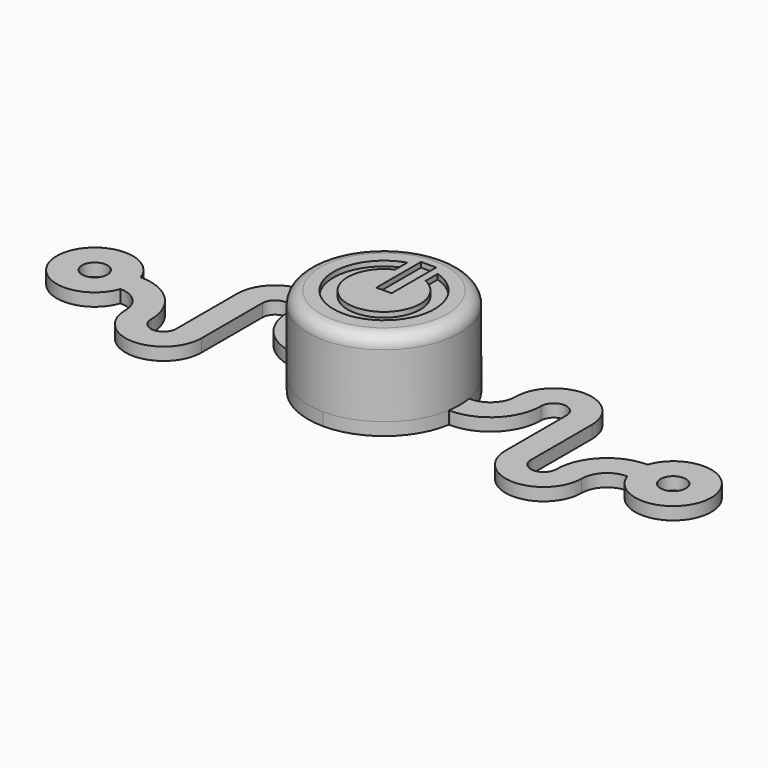
from build123d import *

# Parameters (mm, degrees)
MIRROREDSKETCH_R = 0.5
PAD_DEPTH        = 0.5
SKETCH_R         = 0.5
PAD001_DEPTH     = 0.5
SKETCH001_R      = 3
PAD002_DEPTH     = 3
FILLET_R         = 0.5
SKETCH002_W      = 0.6
SKETCH002_H      = 2.2
POCKET_DEPTH     = 0.2


with BuildPart() as part:
    # MirroredSketch → Pad (new body)
    with BuildSketch(Plane.XY):
        with BuildLine():
            Line((-2.95804, 0.5), (-3, 0.5))
            ThreePointArc((-4, 1.5), (-3.707107, 0.792893), (-3, 0.5))
            ThreePointArc((-4, 1.5), (-5.5, 3), (-7, 1.5))
            Line((-7, 1.5), (-7, -1.5))
            ThreePointArc((-8, -1.5), (-7.5, -2), (-7, -1.5))
            ThreePointArc((-8, -1.5), (-8.585787, -0.085786), (-10, 0.5))
            ThreePointArc((-10, 0.5), (-12.914214, 0), (-10, -0.5))
            ThreePointArc((-9, -1.5), (-9.292893, -0.792893), (-10, -0.5))
            ThreePointArc((-9, -1.5), (-7.5, -3), (-6, -1.5))
            Line((-6, 1.5), (-6, -1.5))
            ThreePointArc((-5, 1.5), (-5.5, 2), (-6, 1.5))
            ThreePointArc((-5, 1.5), (-4.414214, 0.085786), (-3, -0.5))
            Line((-2.95804, -0.5), (-3, -0.5))
            ThreePointArc((-2.95804, -0.5), (-1.936492, -2.291288), (0, -3))
            Line((0, -3), (0, 3))
            ThreePointArc((0, 3), (-1.936492, 2.291288), (-2.95804, 0.5))
        make_face()
        with Locations((-11.414214, 0)):
            Circle(MIRROREDSKETCH_R, mode=Mode.SUBTRACT)
    extrude(amount=PAD_DEPTH)

    # Sketch → Pad001 (join)
    with BuildSketch(Plane.XY):
        with BuildLine():
            Line((2.95804, 0.5), (3, 0.5))
            ThreePointArc((3, 0.5), (3.707107, 0.792893), (4, 1.5))
            ThreePointArc((7, 1.5), (5.5, 3), (4, 1.5))
            Line((7, 1.5), (7, -1.5))
            ThreePointArc((7, -1.5), (7.5, -2), (8, -1.5))
            ThreePointArc((10, 0.5), (8.585787, -0.085786), (8, -1.5))
            ThreePointArc((10, -0.5), (12.914214, 0), (10, 0.5))
            ThreePointArc((10, -0.5), (9.292893, -0.792893), (9, -1.5))
            ThreePointArc((6, -1.5), (7.5, -3), (9, -1.5))
            Line((6, 1.5), (6, -1.5))
            ThreePointArc((6, 1.5), (5.5, 2), (5, 1.5))
            ThreePointArc((3, -0.5), (4.414214, 0.085786), (5, 1.5))
            Line((2.95804, -0.5), (3, -0.5))
            ThreePointArc((0, -3), (1.936492, -2.291288), (2.95804, -0.5))
            Line((0, -3), (0, 3))
            ThreePointArc((2.95804, 0.5), (1.936492, 2.291288), (0, 3))
        make_face()
        with Locations((11.414214, 0)):
            Circle(SKETCH_R, mode=Mode.SUBTRACT)
    extrude(amount=PAD001_DEPTH)

    # Sketch001 (on Face5 of Pad001) → Pad002 (join)
    with BuildSketch(Plane.XY.offset(0.5)):
        Circle(SKETCH001_R)
    extrude(amount=PAD002_DEPTH)

    # Fillet
    fillet_edges = [part.edges().sort_by_distance(p)[0] for p in [
        (-3, 0, 3.5),
    ]]
    fillet(fillet_edges, radius=FILLET_R)

    # Sketch002 (on Face9 of Fillet) → Pocket (cut)
    with BuildSketch(Plane.XY.offset(3.5)):
        with BuildLine():
            ThreePointArc((-0.6, 1.3), (0, -1.431782), (0.6, 1.3))
            Line((0.6, 1.9), (0.6, 1.3))
            ThreePointArc((-0.6, 1.9), (0, -1.992486), (0.6, 1.9))
            Line((-0.6, 1.9), (-0.6, 1.3))
        make_face()
        with Locations((0, 1.1)):
            Rectangle(SKETCH002_W, SKETCH002_H)
    extrude(amount=-POCKET_DEPTH, mode=Mode.SUBTRACT)


solid = part.part
